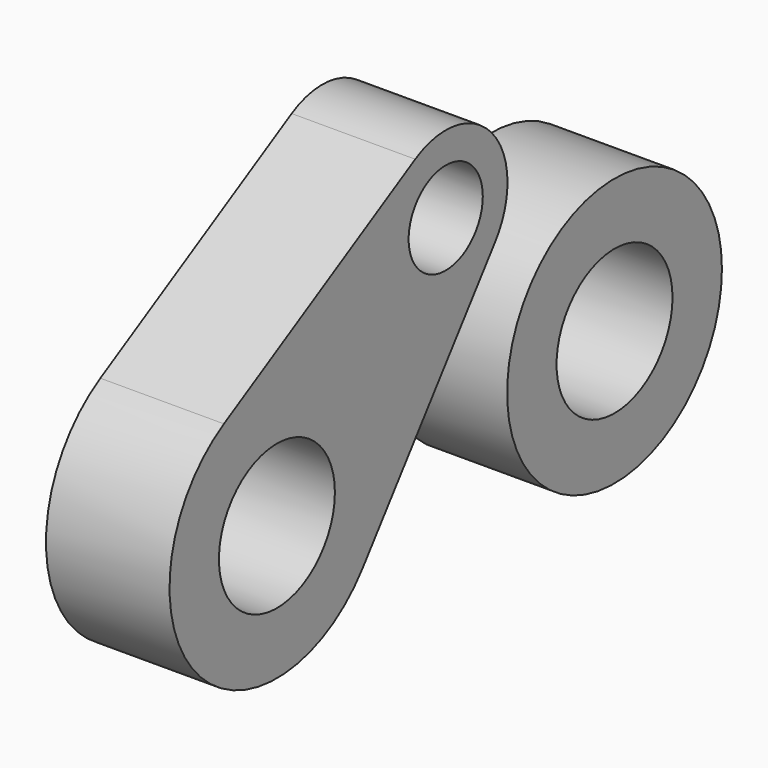
from build123d import *

# Parameters (mm, degrees)
F0_R     = 14.895708
F0_R_2   = 9.525
F0_R_3   = 27.595708
F1_DEPTH = 25.4


with BuildPart() as f1:
    # F0 (on Right) → F1 (new body)
    with BuildSketch(Plane.YZ):
        with BuildLine():
            ThreePointArc((-21.33827, -16.605206), (-17.208799, -8.754878), (-15.783212, 0))
            ThreePointArc((-15.783212, 0), (-29.493591, 23.847867), (-57.001269, 23.999056))
            ThreePointArc((-57.001269, 23.999056), (-64.112793, -18.210701), (-21.33827, -16.605206))
        make_face()
        with Locations((-43.37892, 0)):
            Circle(F0_R, mode=Mode.SUBTRACT)
        with BuildLine():
            ThreePointArc((-57.001269, 23.999056), (-29.493591, 23.847867), (-15.783212, 0))
            ThreePointArc((-15.783212, 0), (-17.208799, -8.754878), (-21.33827, -16.605206))
            Line((-21.33827, -16.605206), (12.679338, 28.547513))
            ThreePointArc((12.679338, 28.547513), (-11.927588, 27.623919), (-7.836537, 51.905952))
            Line((-7.836537, 51.905952), (-57.001269, 23.999056))
        make_face()
        with BuildLine():
            ThreePointArc((15.875, 38.1), (7.987822, 51.818977), (-7.836537, 51.905952))
            ThreePointArc((-7.836537, 51.905952), (-11.927588, 27.623919), (12.679338, 28.547513))
            ThreePointArc((12.679338, 28.547513), (15.054902, 33.063576), (15.875, 38.1))
        make_face()
        with Locations((0, 38.1)):
            Circle(F0_R_2, mode=Mode.SUBTRACT)
        with Locations((43.37892, 0)):
            Circle(F0_R_3)
        with Locations((43.37892, 0)):
            Circle(F0_R, mode=Mode.SUBTRACT)
    extrude(amount=F1_DEPTH)


solid = f1.part
